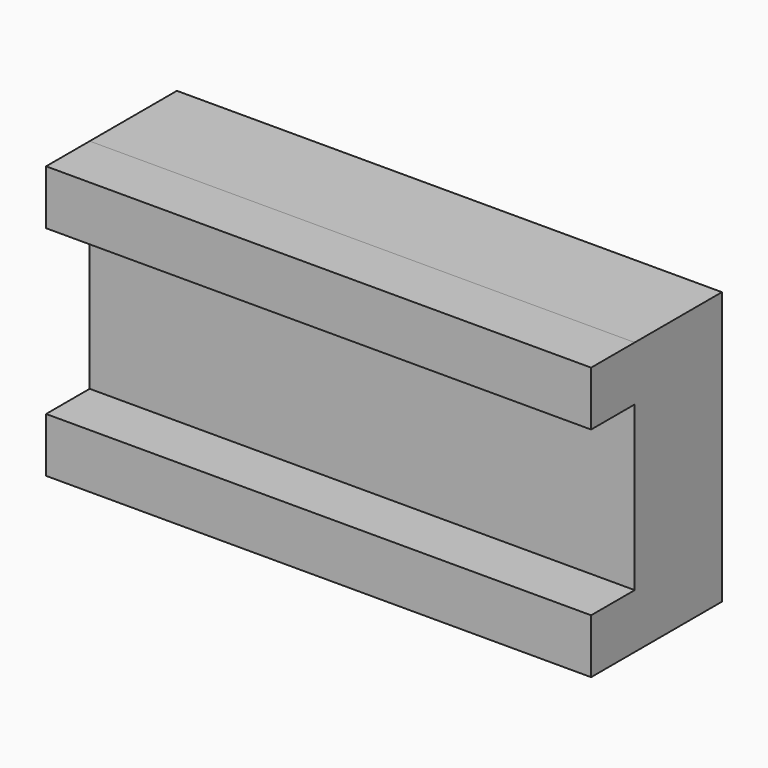
from build123d import *

# Parameters (mm, degrees)
F0_W     = 127
F0_H     = 12.7
F0_H_2   = 38.096577
F0_H_3   = 12.703423
F1_DEPTH = 25.4
F2_W     = 127
F2_H     = 12.7
F3_DEPTH = 12.7
F4_DEPTH = 12.7


with BuildPart() as f1:
    # F0 (on Front) → F1 (new body)
    with BuildSketch(Plane.XZ):
        with Locations((0, -25.4)):
            Rectangle(F0_W, F0_H)
        with Locations((0, -0.001712)):
            Rectangle(F0_W, F0_H_2)
        with Locations((0, 25.398288)):
            Rectangle(F0_W, F0_H_3)
    extrude(amount=F1_DEPTH)

    # F2 (on face) → F3 (join)
    with BuildSketch(Plane.XZ.offset(25.4)):
        with Locations((0, 25.4)):
            Rectangle(F2_W, F2_H)
    extrude(amount=F3_DEPTH)

    # F2 (on face) → F4 (join)
    with BuildSketch(Plane.XZ.offset(25.4)):
        with Locations((0, -25.4)):
            Rectangle(F2_W, F2_H)
    extrude(amount=F4_DEPTH)


solid = f1.part
